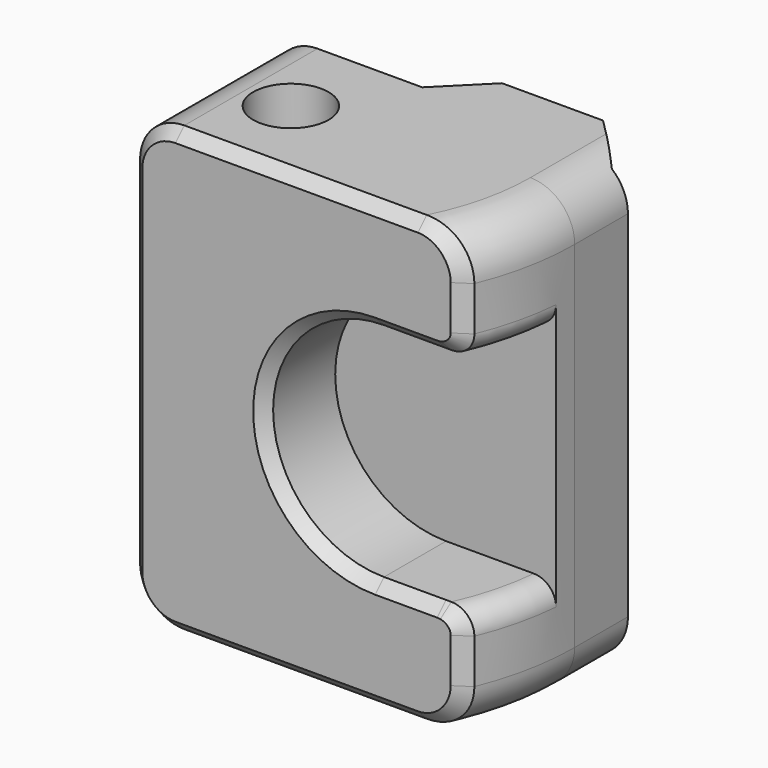
from build123d import *

# Parameters (mm, degrees)
PAD094_DEPTH         = 8
POCKET301_DEPTH      = 4.001
SKETCH433_R          = 1.7
POCKET302_DEPTH      = 10.001
POCKET302_DEPTH_BACK = 10.001
PAD095_DEPTH         = 10
SKETCH437_R          = 2.75
POCKET305_DEPTH      = 5.701
SKETCH436_W          = 12
SKETCH436_H          = 12
POCKET306_DEPTH      = 2.001
GROOVE016_ANGLE      = -90
POCKET307_DEPTH      = 59.991909
FILLET004_R          = 1
CHAMFER007_SIZE      = 0.5


with BuildPart() as part:
    # Sketch431 → Pad094 (new body)
    with BuildSketch(Plane.XZ):
        with BuildLine():
            Line((-11, 8), (-11, -8))
            ThreePointArc((-11, -8), (-10.414214, -9.414214), (-9, -10))
            Line((-9, -10), (5, -10))
            Line((5, -10), (5, 10))
            Line((5, 10), (-9, 10))
            ThreePointArc((-9, 10), (-10.414214, 9.414214), (-11, 8))
        make_face()
    extrude(amount=PAD094_DEPTH)

    # Sketch432 → Pocket301 (cut, through all)
    with BuildSketch(Plane.XZ.offset(4)):
        with BuildLine():
            Line((0, 5), (5, 5))
            Line((5, -5), (5, 5))
            Line((0, -5), (5, -5))
            ThreePointArc((0, 5), (-5, 0), (0, -5))
        make_face()
    extrude(amount=POCKET301_DEPTH, mode=Mode.SUBTRACT)

    # Sketch433 → Pocket302 (cut, two sides)
    with BuildSketch(Plane.XY) as pocket302_sk:
        with Locations((-7, -4)):
            Circle(SKETCH433_R)
    extrude(amount=-POCKET302_DEPTH, mode=Mode.SUBTRACT)
    extrude(pocket302_sk.sketch, amount=POCKET302_DEPTH_BACK, mode=Mode.SUBTRACT)

    # Sketch434 → Pad095 (join, symmetric)
    with BuildSketch(Plane.XY):
        Polygon((-4.275736, 0), (-2.275736, 2), (2.275736, 2), (4.275736, 0), align=None)
    extrude(amount=PAD095_DEPTH, both=True)

    # Sketch437 → Pocket305 (cut, through all)
    with BuildSketch(Plane.XZ.offset(3.7)):
        Circle(SKETCH437_R)
    extrude(amount=-POCKET305_DEPTH, mode=Mode.SUBTRACT)

    # Sketch436 → Pocket306 (cut, through all)
    with BuildSketch(Plane.XZ):
        Rectangle(SKETCH436_W, SKETCH436_H)
    extrude(amount=-POCKET306_DEPTH, mode=Mode.SUBTRACT)

    # Sketch435 → Groove016 (revolve, cut)
    with BuildSketch(Plane(origin=(-7, -3, 0), x_dir=(1, 0, 0), z_dir=(0, -1, 0))):
        with BuildLine():
            ThreePointArc((12, 8), (11.414214, 9.414214), (10, 10))
            Line((10, 10), (16, 10))
            Line((16, 10), (16, 0))
            Line((16, 0), (12, 0))
            Line((12, 0), (12, 8))
        make_face()
    groove016 = revolve(axis=Axis((-7, -3, 0), (0, 0, 1)), revolution_arc=GROOVE016_ANGLE, mode=Mode.SUBTRACT)

    # Sketch435 → Pocket307 (cut, through all)
    with BuildSketch(Plane(origin=(-7, -3, 0), x_dir=(1, 0, 0), z_dir=(0, -1, 0))):
        with BuildLine():
            ThreePointArc((12, 8), (11.414214, 9.414214), (10, 10))
            Line((10, 10), (16, 10))
            Line((16, 10), (16, 0))
            Line((16, 0), (12, 0))
            Line((12, 0), (12, 8))
        make_face()
    pocket307 = extrude(amount=-POCKET307_DEPTH, mode=Mode.SUBTRACT)

    # Mirrored011: Pocket307, Groove016 across XY
    add(pocket307.mirror(Plane.XY), mode=Mode.SUBTRACT)
    add(groove016.mirror(Plane.XY), mode=Mode.SUBTRACT)

    # Fillet004
    fillet004_edges = [part.edges().sort_by_distance(p)[0] for p in [
        (4.607093, -6.045552, 5),
        (4.607093, -6.045552, -5),
    ]]
    fillet(fillet004_edges, radius=FILLET004_R)

    # Chamfer007
    chamfer007_edges = [part.edges().sort_by_distance(p)[0] for p in [
        (-3.669873, -8, -10),
    ]]
    chamfer(chamfer007_edges, length=CHAMFER007_SIZE)


solid = part.part
